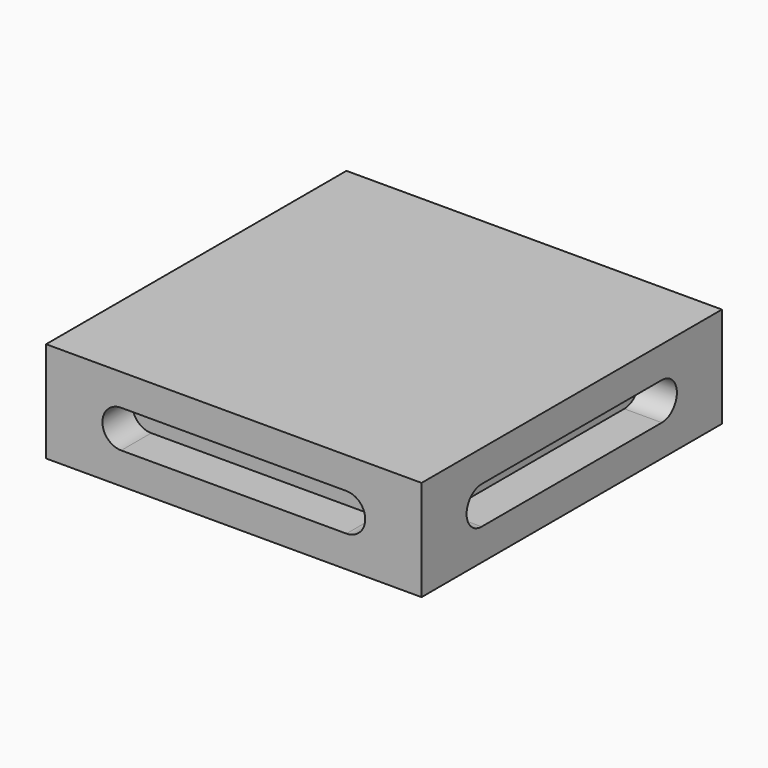
from build123d import *

# Parameters (mm, degrees)
F0_W     = 127
F0_H     = 127
F1_DEPTH = 34.029548
F3_DEPTH = 11.938
F6_DEPTH = 12.7
F7_DEPTH = 12.7
F9_DEPTH = 11.938


with BuildPart() as f1:
    # F0 (on Top) → F1 (new body)
    with BuildSketch(Plane.XY):
        Rectangle(F0_W, F0_H)
    extrude(amount=F1_DEPTH)

    # F2 (on face) → F3 (join)
    with BuildSketch(Plane(origin=(0, 63.5, 0), x_dir=(-1, 0, 0), z_dir=(0, 1, 0))):
        with BuildLine():
            ThreePointArc((-38.1, 22.983774), (-44.069, 17.014774), (-38.1, 11.045774))
            Line((-38.1, 11.045774), (38.1, 11.045774))
            ThreePointArc((38.1, 11.045774), (44.069, 17.014774), (38.1, 22.983774))
            Line((38.1, 22.983774), (-38.1, 22.983774))
        make_face()
    extrude(amount=F3_DEPTH)

    # F4 (on face) → F6 (cut)
    with BuildSketch(Plane.XZ.offset(63.5)):
        with BuildLine():
            ThreePointArc((-38.1, 23.364774), (-44.45, 17.014774), (-38.1, 10.664774))
            Line((-38.1, 10.664774), (38.1, 10.664774))
            ThreePointArc((38.1, 10.664774), (44.45, 17.014774), (38.1, 23.364774))
            Line((38.1, 23.364774), (-38.1, 23.364774))
        make_face()
    extrude(amount=-F6_DEPTH, mode=Mode.SUBTRACT)

    # F5 (on face) → F7 (cut)
    with BuildSketch(Plane.YZ.offset(63.5)):
        with BuildLine():
            ThreePointArc((-38.1, 23.364774), (-44.45, 17.014774), (-38.1, 10.664774))
            Line((-38.1, 10.664774), (38.1, 10.664774))
            ThreePointArc((38.1, 10.664774), (44.45, 17.014774), (38.1, 23.364774))
            Line((38.1, 23.364774), (-38.1, 23.364774))
        make_face()
    extrude(amount=-F7_DEPTH, mode=Mode.SUBTRACT)

    # F8 (on face) → F9 (join)
    with BuildSketch(Plane(origin=(-63.5, 0, 0), x_dir=(0, -1, 0), z_dir=(-1, 0, 0))):
        with BuildLine():
            ThreePointArc((-38.1, 22.983774), (-44.069, 17.014774), (-38.1, 11.045774))
            Line((-38.1, 11.045774), (38.1, 11.045774))
            ThreePointArc((38.1, 11.045774), (44.069, 17.014774), (38.1, 22.983774))
            Line((38.1, 22.983774), (-38.1, 22.983774))
        make_face()
    extrude(amount=F9_DEPTH)


solid = f1.part
